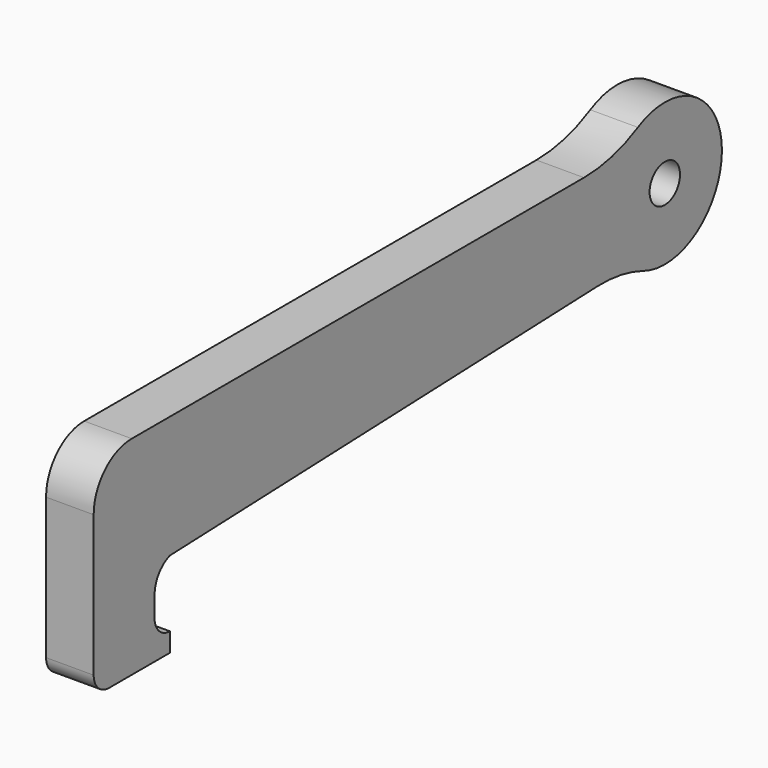
from build123d import *

# Parameters (mm, degrees)
F0_R     = 2
F1_DEPTH = 5


with BuildPart() as f1:
    # F0 (on Right) → F1 (new body)
    with BuildSketch(Plane.YZ):
        with BuildLine():
            Line((-8, 0), (0, 0))
            Line((0, 0), (0, 2))
            ThreePointArc((0, 2), (-1.414214, 2.585786), (-2, 4))
            Line((-2, 4), (-2, 6.17303))
            ThreePointArc((-2, 6.17303), (-1.449447, 7.904486), (0, 9))
            Line((0, 9), (56.146942, 11.076121))
            ThreePointArc((56.146942, 11.076121), (59.244828, 10.869126), (62.233737, 10.028788))
            ThreePointArc((62.233737, 10.028788), (72.487976, 17.424523), (61.463545, 23.613886))
            ThreePointArc((61.463545, 23.613886), (58.036414, 22.291458), (54.390634, 21.841657))
            Line((54.390634, 21.841657), (-5, 21.841657))
            ThreePointArc((-5, 21.841657), (-8.535534, 20.377191), (-10, 16.841657))
            Line((-10, 16.841657), (-10, 2))
            ThreePointArc((-10, 2), (-9.414214, 0.585786), (-8, 0))
        make_face()
        with Locations((65, 17)):
            Circle(F0_R, mode=Mode.SUBTRACT)
    extrude(amount=F1_DEPTH)


solid = f1.part
